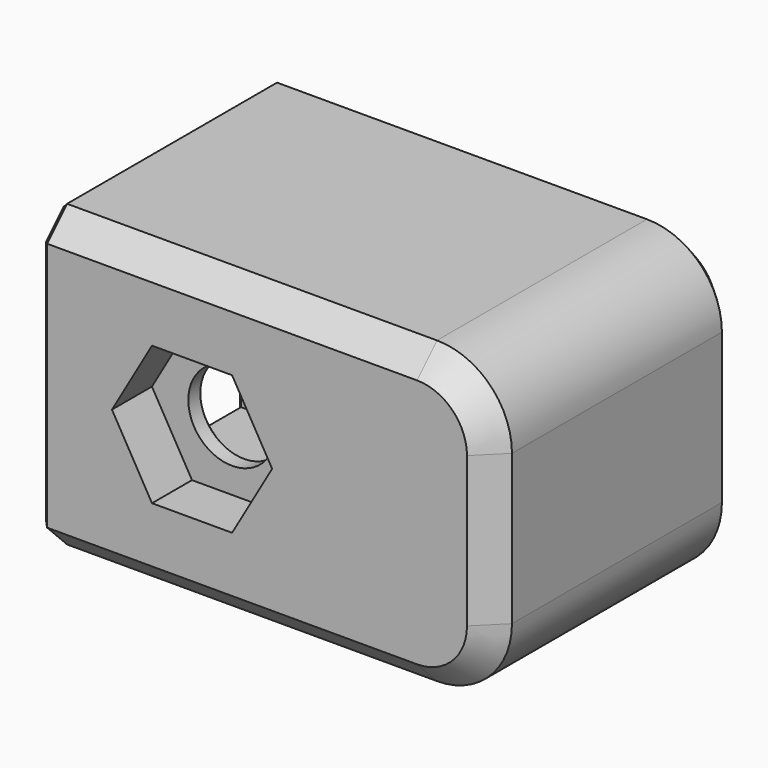
from build123d import *

# Parameters (mm, degrees)
SKETCH007_W       = 12.5
SKETCH007_H       = 12
PAD004_DEPTH      = 15
PAD004_DEPTH_BACK = 3
FILLET006_R       = 3
SKETCH008_W       = 6.9
SKETCH008_H       = 9.4
POCKET005_DEPTH   = 22
SKETCH009_R       = 1.75
POCKET006_DEPTH   = 12
CHAMFER005_SIZE   = 1
CHAMFER006_SIZE   = 0.2
CHAMFER007_SIZE   = 2
POCKET007_DEPTH   = 2


with BuildPart() as but_e:
    # Sketch007 → Pad004 (new body, two sides)
    with BuildSketch(Plane.YZ) as pad004_sk:
        Rectangle(SKETCH007_W, SKETCH007_H)
    extrude(amount=PAD004_DEPTH)
    extrude(pad004_sk.sketch, amount=-PAD004_DEPTH_BACK)

    # Fillet006
    fillet006_edges = [but_e.edges().sort_by_distance(p)[0] for p in [
        (-3, 0, 6),
        (-3, 0, -6),
    ]]
    fillet(fillet006_edges, radius=FILLET006_R)

    # Sketch008 → Pocket005 (cut)
    with BuildSketch(Plane.YZ):
        Rectangle(SKETCH008_W, SKETCH008_H)
    extrude(amount=POCKET005_DEPTH, mode=Mode.SUBTRACT)

    # Sketch009 → Pocket006 (cut, symmetric)
    with BuildSketch(Plane.XZ):
        with Locations((9, 0)):
            Circle(SKETCH009_R)
    extrude(amount=POCKET006_DEPTH, both=True, mode=Mode.SUBTRACT)

    # Chamfer005
    chamfer005_edges = [but_e.edges().sort_by_distance(p)[0] for p in [
        (7.5, -6.25, 6),
        (7.5, 6.25, 6),
    ]]
    chamfer(chamfer005_edges, length=CHAMFER005_SIZE)

    # Chamfer006
    chamfer006_edges = [but_e.edges().sort_by_distance(p)[0] for p in [
        (15, -6.25, 0),
        (15, -5.75, -5.5),
        (15, -5.75, 5.5),
        (15, 0, -6),
        (15, 0, 6),
        (15, 5.75, -5.5),
        (15, 5.75, 5.5),
        (15, 6.25, 0),
        (15, -3.45, 0),
        (15, 0, -4.7),
        (15, 3.45, 0),
        (15, 0, 4.7),
        (7.25, -3.45, 0),
        (7.25, 3.45, 0),
    ]]
    chamfer(chamfer006_edges, length=CHAMFER006_SIZE)

    # Chamfer007
    chamfer007_edges = [but_e.edges().sort_by_distance(p)[0] for p in [
        (7.25, 6.25, 0),
    ]]
    chamfer(chamfer007_edges, length=CHAMFER007_SIZE)

    # Sketch010 (on Face34 of Chamfer007) → Pocket007 (cut)
    with BuildSketch(Plane.XZ.offset(6.25)):
        Polygon((12.204294, 0), (10.602147, 2.775), (7.397853, 2.775), (5.795706, 0), (7.397853, -2.775), (10.602147, -2.775), align=None)
    extrude(amount=-POCKET007_DEPTH, mode=Mode.SUBTRACT)


with BuildPart() as but_e_1:
    # Body003 placement: moved
    add(but_e.part.moved(Location((-75, 3.25, 0))))


with BuildPart() as part_mirroring001:
    add(but_e_1.part.mirror(Plane(origin=(0, 0, 0), x_dir=(0, -1, 0), z_dir=(1, 0, 0))))


solid = part_mirroring001.part
